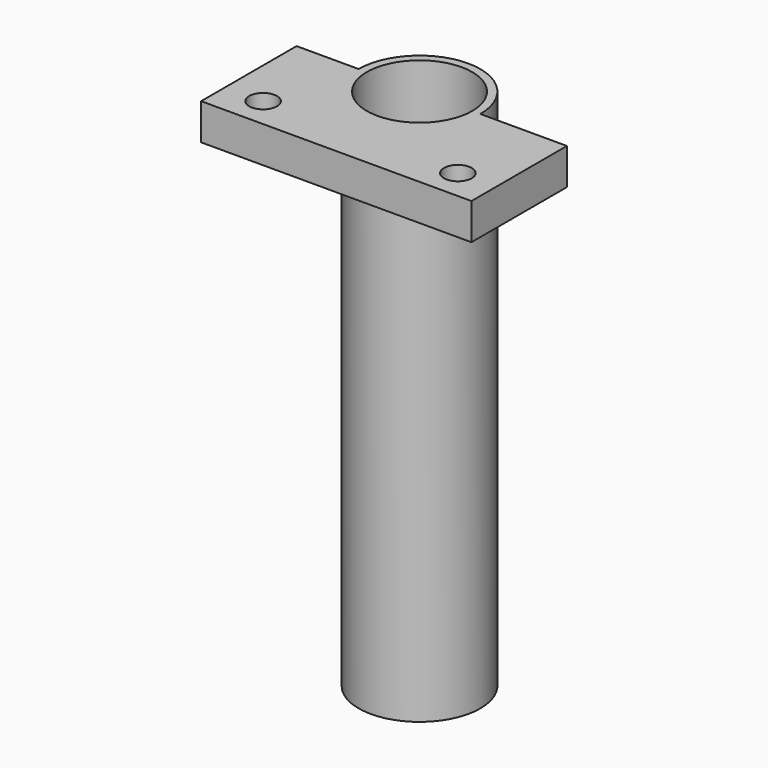
from build123d import *

# Parameters (mm, degrees)
F0_R     = 7.65
F1_DEPTH = 65.8
F2_R     = 6.63
F3_DEPTH = 65.801
F4_W     = 33.99
F4_H     = 15
F5_DEPTH = 4.56
F6_R     = 6.63
F7_DEPTH = 65.801
F8_R     = 1.75
F9_DEPTH = 65.801


with BuildPart() as f1:
    # F0 (on Top) → F1 (new body)
    with BuildSketch(Plane.XY):
        Circle(F0_R)
    extrude(amount=F1_DEPTH)

    # F2 (on face) → F3 (cut, through all)
    with BuildSketch(Plane.XY.offset(65.8)):
        Circle(F2_R)
    extrude(amount=-F3_DEPTH, mode=Mode.SUBTRACT)

    # F4 (on face) → F5 (join)
    with BuildSketch(Plane.XY.offset(65.8)):
        with Locations((1.535, -7.5)):
            Rectangle(F4_W, F4_H)
    extrude(amount=-F5_DEPTH)

    # F6 (on face) → F7 (cut, through all)
    with BuildSketch(Plane.XY.offset(65.8)):
        Circle(F6_R)
    extrude(amount=-F7_DEPTH, mode=Mode.SUBTRACT)

    # F8 (on face) → F9 (cut, through all)
    with BuildSketch(Plane.XY.offset(65.8)):
        with Locations((-10.71, -11.198)):
            Circle(F8_R)
        with Locations((13.78, -11.198)):
            Circle(F8_R)
    extrude(amount=-F9_DEPTH, mode=Mode.SUBTRACT)


solid = f1.part
